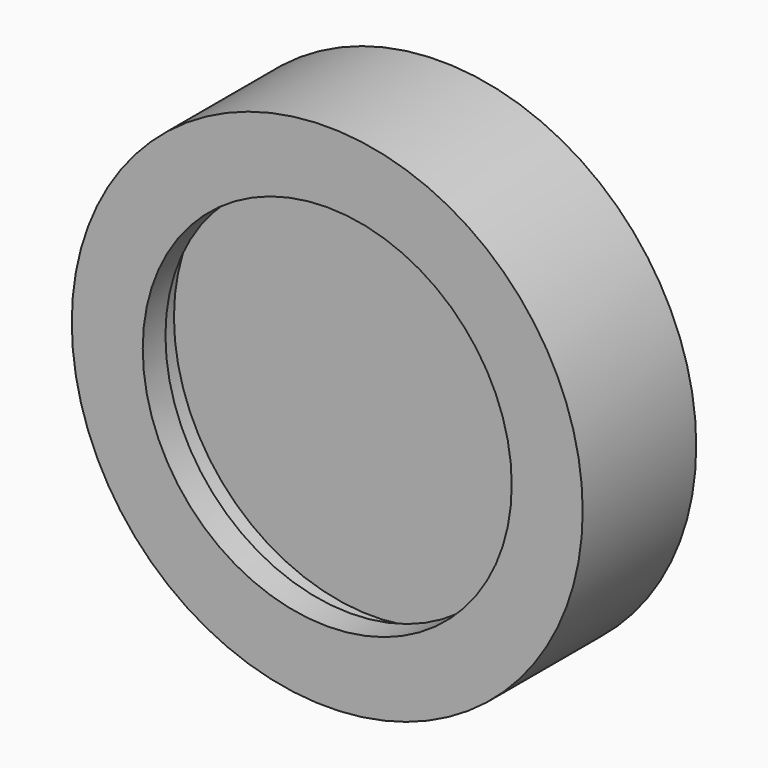
from build123d import *

# Parameters (mm, degrees)
F0_R     = 45
F1_DEPTH = 25
F2_R     = 32.5
F3_DEPTH = 10
F5_R     = 35
F5_R_2   = 32.5
F6_DEPTH = 5


with BuildPart() as f1:
    # F0 (on Front) → F1 (new body)
    with BuildSketch(Plane.XZ):
        Circle(F0_R)
    extrude(amount=F1_DEPTH)

    # F2 (on face) → F3 (cut)
    with BuildSketch(Plane.XZ.offset(25)):
        Circle(F2_R)
    extrude(amount=-F3_DEPTH, mode=Mode.SUBTRACT)

    # F5 (on offset) → F6 (cut)
    with BuildSketch(Plane.XZ.offset(20)):
        Circle(F5_R)
        Circle(F5_R_2, mode=Mode.SUBTRACT)
    extrude(amount=-F6_DEPTH, mode=Mode.SUBTRACT)


solid = f1.part
